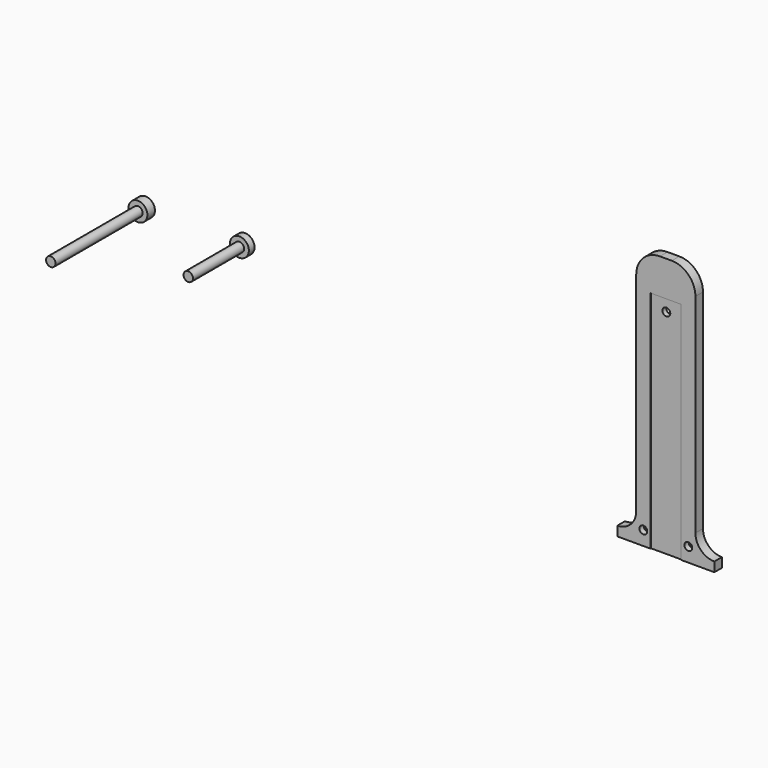
from build123d import *

# Parameters (mm, degrees)
F0_R           = 2
F1_DEPTH       = 80
F0_R_2         = 4
F2_DEPTH       = 3
F3_DEPTH       = 50
F5_DEPTH       = 4
F6_DEPTH       = 3.7
F7_D           = 3.3
F7_CSINK_D     = 6.72
F7_CSINK_ANGLE = 90
F8_D           = 3.3
F8_CSINK_D     = 6.72
F8_CSINK_ANGLE = 90
F9_DEPTH       = 50


with BuildPart() as f1:
    # F0 (on Front) → F1 (new body)
    with BuildSketch(Plane.XZ):
        Circle(F0_R)
    extrude(amount=F1_DEPTH)

    # F0 (on Front) → F2 (join)
    with BuildSketch(Plane.XZ):
        Circle(F0_R_2)
        Circle(F0_R, mode=Mode.SUBTRACT)
    extrude(amount=F2_DEPTH)

    # F3 (cut): a face of the model
    f3_faces = [f1.faces().sort_by_distance(p)[0] for p in [
        (0, -80, 0),
    ]]
    extrude(f3_faces, amount=-F3_DEPTH, mode=Mode.SUBTRACT)


with BuildPart() as f5:
    # F4 (on Front) → F5 (new body)
    with BuildSketch(Plane.XZ):
        with BuildLine():
            Line((160.4449624035, -55), (168.4449624035, -55))
            Line((168.4449624035, -55), (174.4449624035, -55))
            Line((174.4449624035, -55), (174.4449624035, 29.9261510372))
            Line((174.4449624035, 29.9261510372), (174.4449624035, 40.0738489628))
            Line((174.4449624035, 40.0738489628), (187.4449624035, 40.0738489628))
            Line((187.4449624035, 40.0738489628), (187.4449624035, 29.9261510372))
            Line((187.4449624035, 29.9261510372), (187.4449624035, -55))
            Line((187.4449624035, -55), (193.4449624035, -55))
            Line((193.4449624035, -55), (201.4449624035, -55))
            Line((201.4449624035, -55), (201.4449624035, -51))
            ThreePointArc((201.4449624035, -51), (195.788108154, -48.6568542495), (193.4449624035, -43))
            Line((193.4449624035, -43), (193.4449624035, 45))
            ThreePointArc((193.4449624035, 45), (190.5160302153, 52.0710678119), (183.4449624035, 55))
            Line((183.4449624035, 55), (178.4449624035, 55))
            ThreePointArc((178.4449624035, 55), (171.3738945916, 52.0710678119), (168.4449624035, 45))
            Line((168.4449624035, 45), (168.4449624035, -43))
            ThreePointArc((168.4449624035, -43), (166.101816653, -48.6568542495), (160.4449624035, -51))
            Line((160.4449624035, -51), (160.4449624035, -55))
        make_face()
    extrude(amount=F5_DEPTH)

    # F4 (on Front) → F6 (join)
    with BuildSketch(Plane.XZ):
        Polygon((174.4449624035, 29.9261510372), (174.4449624035, -55), (180.9449624035, -55), (187.4449624035, -55), (187.4449624035, 29.9261510372), (187.4449624035, 40.0738489628), (174.4449624035, 40.0738489628), align=None)
    extrude(amount=F6_DEPTH)

    # F7 (through all)
    with Locations(Plane(origin=(0, 0, 0), x_dir=(1, 0, 0), z_dir=(0, 1, 0))):
        with Locations((180.9449624035, -35)):
            CounterSinkHole(F7_D / 2, F7_CSINK_D / 2, counter_sink_angle=F7_CSINK_ANGLE)

    # F8 (through all)
    with Locations(Plane(origin=(0, 0, 0), x_dir=(1, 0, 0), z_dir=(0, 1, 0))):
        with Locations((190.4449624035, 49), (171.4449624035, 49)):
            CounterSinkHole(F8_D / 2, F8_CSINK_D / 2, counter_sink_angle=F8_CSINK_ANGLE)


with BuildPart() as f5b:
    # F0 (on Front) → F5, piece 2 (new body)
    with BuildSketch(Plane.XZ):
        with Locations((-42.0555584133, 0)):
            Circle(F0_R_2)
        with Locations((-42.0555584133, 0)):
            Circle(F0_R, mode=Mode.SUBTRACT)
    extrude(amount=F5_DEPTH)

    # F0 (on Front) → F9 (join)
    with BuildSketch(Plane.XZ):
        with Locations((-42.0555584133, 0)):
            Circle(F0_R)
    extrude(amount=F9_DEPTH)


solid = Compound([f1.part, f5.part, f5b.part])
